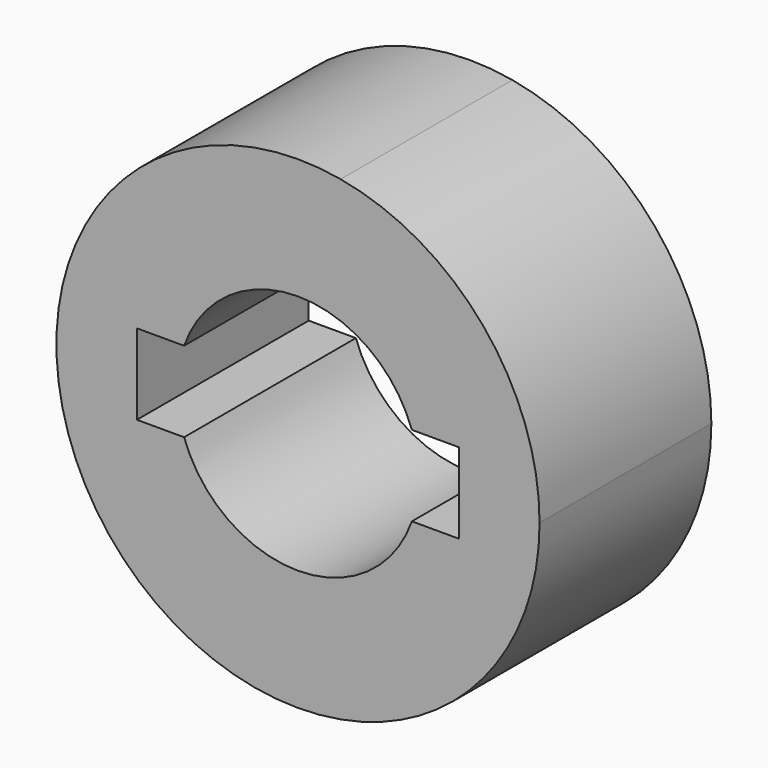
from build123d import *

# Parameters (mm, degrees)
F1_DEPTH = 25.4


with BuildPart() as f1:
    # F0 (on Front) → F1 (new body)
    with BuildSketch(Plane.XZ):
        with BuildLine():
            ThreePointArc((-25.213393, -28.126541), (-8.340016, -18.336262), (-1.68104, 0))
            ThreePointArc((-1.68104, 0), (-8.340016, 18.336262), (-25.213393, 28.126541))
            ThreePointArc((-25.213393, 28.126541), (-58.83104, 0), (-25.213393, -28.126541))
        make_face()
        with BuildLine():
            ThreePointArc((-43.726425, 4.7625), (-30.25604, 14.2875), (-16.785656, 4.7625))
            Line((-16.785656, 4.7625), (-11.20604, 4.7625))
            Line((-11.20604, 4.7625), (-11.20604, -4.7625))
            Line((-11.20604, -4.7625), (-16.785656, -4.7625))
            ThreePointArc((-16.785656, -4.7625), (-30.25604, -14.2875), (-43.726425, -4.7625))
            Line((-43.726425, -4.7625), (-49.30604, -4.7625))
            Line((-49.30604, -4.7625), (-49.30604, 4.7625))
            Line((-49.30604, 4.7625), (-43.726425, 4.7625))
        make_face(mode=Mode.SUBTRACT)
    extrude(amount=-F1_DEPTH)


solid = f1.part
